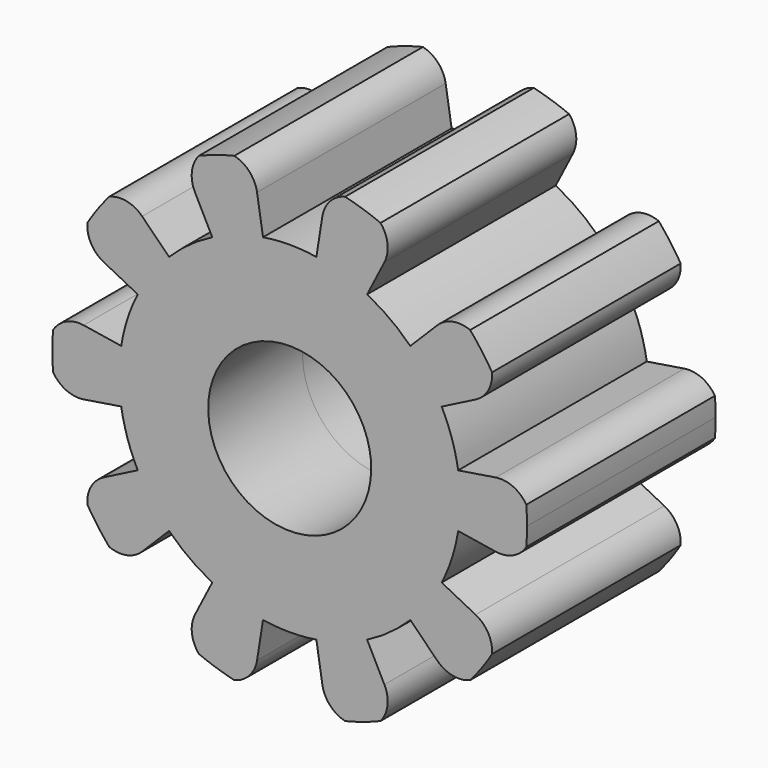
from build123d import *

# Parameters (mm, degrees)
F1_DEPTH = 2.8702


with BuildPart() as f1:
    # F0 (on Front) → F1 (new body, symmetric)
    with BuildSketch(Plane.XZ):
        with BuildLine():
            ThreePointArc((5.7785, 0), (5.7740449859, 0.2268628454), (5.760686813, 0.4533758847))
            ThreePointArc((5.760686813, 0.4533758847), (5.4407027929, 0.736461757), (5.0174567702, 0.7946870824))
            Line((5.0174567702, 0.7946870824), (4.1017709097, 0.6496566899))
            ThreePointArc((4.1017709097, 0.6496566899), (4.0381550424, 0.9694752516), (3.9496426065, 1.2833166759))
            Line((3.9496426065, 1.2833166759), (1.8872527745, 0.6132055982))
            ThreePointArc((1.8872527745, 0.6132055982), (1.9599440509, 0.3104246416), (1.984375, 0))
            Line((1.984375, 0), (5.7785, 0))
        make_face()
        with BuildLine():
            ThreePointArc((5.760686813, -0.4533758847), (5.7740449859, -0.2268628454), (5.7785, 0))
            Line((5.7785, 0), (1.984375, 0))
            ThreePointArc((1.984375, 0), (-1.9599440509, -0.3104246416), (1.8872527745, 0.6132055982))
            Line((1.8872527745, 0.6132055982), (3.9496426065, 1.2833166759))
            ThreePointArc((3.9496426065, 1.2833166759), (3.8367793106, 1.5892460263), (3.7002609943, 1.8853771464))
            Line((3.7002609943, 1.8853771464), (4.5263131429, 2.3062717387))
            ThreePointArc((4.5263131429, 2.3062717387), (4.8345023804, 2.6021547867), (4.9269811897, 3.0192579562))
            ThreePointArc((4.9269811897, 3.0192579562), (4.8046471547, 3.2103625915), (4.674904702, 3.3965170804))
            ThreePointArc((4.674904702, 3.3965170804), (4.5379538851, 3.5774343861), (4.3940058722, 3.7528355473))
            ThreePointArc((4.3940058722, 3.7528355473), (3.9687396612, 3.7937749409), (3.5921024484, 3.5921024484))
            Line((3.5921024484, 3.5921024484), (2.9365437516, 2.9365437516))
            ThreePointArc((2.9365437516, 2.9365437516), (2.6970927999, 3.1578899345), (2.4410133742, 3.3597666759))
            ThreePointArc((2.4410133742, 3.3597666759), (2.1698842894, 3.5409293385), (1.8853771464, 3.7002609943))
            Line((1.8853771464, 3.7002609943), (2.3062717387, 4.5263131429))
            ThreePointArc((2.3062717387, 4.5263131429), (2.3816863773, 4.9468366458), (2.2113362139, 5.3386378786))
            ThreePointArc((2.2113362139, 5.3386378786), (2.0000374143, 5.4213386346), (1.785654702, 5.4956800794))
            ThreePointArc((1.785654702, 5.4956800794), (1.5685186395, 5.5615475838), (1.348964035, 5.618839585))
            ThreePointArc((1.348964035, 5.618839585), (0.9808528714, 5.401995043), (0.7946870824, 5.0174567702))
            Line((0.7946870824, 5.0174567702), (0.6496566899, 4.1017709097))
            ThreePointArc((0.6496566899, 4.1017709097), (0.3258327786, 4.1400979953), (0, 4.1529))
            ThreePointArc((0, 4.1529), (-0.3258327786, 4.1400979953), (-0.6496566899, 4.1017709097))
            Line((-0.6496566899, 4.1017709097), (-0.7946870824, 5.0174567702))
            ThreePointArc((-0.7946870824, 5.0174567702), (-0.9808528714, 5.401995043), (-1.348964035, 5.618839585))
            ThreePointArc((-1.348964035, 5.618839585), (-1.5685186395, 5.5615475838), (-1.785654702, 5.4956800794))
            ThreePointArc((-1.785654702, 5.4956800794), (-2.0000374143, 5.4213386346), (-2.2113362139, 5.3386378786))
            ThreePointArc((-2.2113362139, 5.3386378786), (-2.3816863773, 4.9468366458), (-2.3062717387, 4.5263131429))
            Line((-2.3062717387, 4.5263131429), (-1.8853771464, 3.7002609943))
            ThreePointArc((-1.8853771464, 3.7002609943), (-2.1698842894, 3.5409293385), (-2.4410133742, 3.3597666759))
            ThreePointArc((-2.4410133742, 3.3597666759), (-2.6970927999, 3.1578899345), (-2.9365437516, 2.9365437516))
            Line((-2.9365437516, 2.9365437516), (-3.5921024484, 3.5921024484))
            ThreePointArc((-3.5921024484, 3.5921024484), (-3.9687396612, 3.7937749409), (-4.3940058722, 3.7528355473))
            ThreePointArc((-4.3940058722, 3.7528355473), (-4.5379538851, 3.5774343861), (-4.674904702, 3.3965170804))
            ThreePointArc((-4.674904702, 3.3965170804), (-4.8046471547, 3.2103625915), (-4.9269811897, 3.0192579562))
            ThreePointArc((-4.9269811897, 3.0192579562), (-4.8345023804, 2.6021547867), (-4.5263131429, 2.3062717387))
            Line((-4.5263131429, 2.3062717387), (-3.7002609943, 1.8853771464))
            ThreePointArc((-3.7002609943, 1.8853771464), (-3.8367793106, 1.5892460263), (-3.9496426065, 1.2833166759))
            ThreePointArc((-3.9496426065, 1.2833166759), (-4.0381550424, 0.9694752516), (-4.1017709097, 0.6496566899))
            Line((-4.1017709097, 0.6496566899), (-5.0174567702, 0.7946870824))
            ThreePointArc((-5.0174567702, 0.7946870824), (-5.4407027929, 0.736461757), (-5.760686813, 0.4533758847))
            ThreePointArc((-5.760686813, 0.4533758847), (-5.7740449859, 0.2268628454), (-5.7785, 0))
            ThreePointArc((-5.7785, 0), (-5.7740449859, -0.2268628454), (-5.760686813, -0.4533758847))
            ThreePointArc((-5.760686813, -0.4533758847), (-5.4407027929, -0.736461757), (-5.0174567702, -0.7946870824))
            Line((-5.0174567702, -0.7946870824), (-4.1017709097, -0.6496566899))
            ThreePointArc((-4.1017709097, -0.6496566899), (-4.0381550424, -0.9694752516), (-3.9496426065, -1.2833166759))
            ThreePointArc((-3.9496426065, -1.2833166759), (-3.8367793106, -1.5892460263), (-3.7002609943, -1.8853771464))
            Line((-3.7002609943, -1.8853771464), (-4.5263131429, -2.3062717387))
            ThreePointArc((-4.5263131429, -2.3062717387), (-4.8345023804, -2.6021547867), (-4.9269811897, -3.0192579562))
            ThreePointArc((-4.9269811897, -3.0192579562), (-4.8046471547, -3.2103625915), (-4.674904702, -3.3965170804))
            ThreePointArc((-4.674904702, -3.3965170804), (-4.5379538851, -3.5774343861), (-4.3940058722, -3.7528355473))
            ThreePointArc((-4.3940058722, -3.7528355473), (-3.9687396612, -3.7937749409), (-3.5921024484, -3.5921024484))
            Line((-3.5921024484, -3.5921024484), (-2.9365437516, -2.9365437516))
            ThreePointArc((-2.9365437516, -2.9365437516), (-2.6970927999, -3.1578899345), (-2.4410133742, -3.3597666759))
            ThreePointArc((-2.4410133742, -3.3597666759), (-2.1698842894, -3.5409293385), (-1.8853771464, -3.7002609943))
            Line((-1.8853771464, -3.7002609943), (-2.3062717387, -4.5263131429))
            ThreePointArc((-2.3062717387, -4.5263131429), (-2.3816863773, -4.9468366458), (-2.2113362139, -5.3386378786))
            ThreePointArc((-2.2113362139, -5.3386378786), (-2.0000374143, -5.4213386346), (-1.785654702, -5.4956800794))
            ThreePointArc((-1.785654702, -5.4956800794), (-1.5685186395, -5.5615475838), (-1.348964035, -5.618839585))
            ThreePointArc((-1.348964035, -5.618839585), (-0.9808528714, -5.401995043), (-0.7946870824, -5.0174567702))
            Line((-0.7946870824, -5.0174567702), (-0.6496566899, -4.1017709097))
            ThreePointArc((-0.6496566899, -4.1017709097), (-0.3258327786, -4.1400979953), (0, -4.1529))
            ThreePointArc((0, -4.1529), (0.3258327786, -4.1400979953), (0.6496566899, -4.1017709097))
            Line((0.6496566899, -4.1017709097), (0.7946870824, -5.0174567702))
            ThreePointArc((0.7946870824, -5.0174567702), (0.9808528714, -5.401995043), (1.348964035, -5.618839585))
            ThreePointArc((1.348964035, -5.618839585), (1.5685186395, -5.5615475838), (1.785654702, -5.4956800794))
            ThreePointArc((1.785654702, -5.4956800794), (2.0000374143, -5.4213386346), (2.2113362139, -5.3386378786))
            ThreePointArc((2.2113362139, -5.3386378786), (2.3816863773, -4.9468366458), (2.3062717387, -4.5263131429))
            Line((2.3062717387, -4.5263131429), (1.8853771464, -3.7002609943))
            ThreePointArc((1.8853771464, -3.7002609943), (2.1698842894, -3.5409293385), (2.4410133742, -3.3597666759))
            ThreePointArc((2.4410133742, -3.3597666759), (2.6970927999, -3.1578899345), (2.9365437516, -2.9365437516))
            Line((2.9365437516, -2.9365437516), (3.5921024484, -3.5921024484))
            ThreePointArc((3.5921024484, -3.5921024484), (3.9687396612, -3.7937749409), (4.3940058722, -3.7528355473))
            ThreePointArc((4.3940058722, -3.7528355473), (4.5379538851, -3.5774343861), (4.674904702, -3.3965170804))
            ThreePointArc((4.674904702, -3.3965170804), (4.8046471547, -3.2103625915), (4.9269811897, -3.0192579562))
            ThreePointArc((4.9269811897, -3.0192579562), (4.8345023804, -2.6021547867), (4.5263131429, -2.3062717387))
            Line((4.5263131429, -2.3062717387), (3.7002609943, -1.8853771464))
            ThreePointArc((3.7002609943, -1.8853771464), (3.8367793106, -1.5892460263), (3.9496426065, -1.2833166759))
            ThreePointArc((3.9496426065, -1.2833166759), (4.0381550424, -0.9694752516), (4.1017709097, -0.6496566899))
            Line((4.1017709097, -0.6496566899), (5.0174567702, -0.7946870824))
            ThreePointArc((5.0174567702, -0.7946870824), (5.4407027929, -0.736461757), (5.760686813, -0.4533758847))
        make_face()
    extrude(amount=F1_DEPTH, both=True)


solid = f1.part
